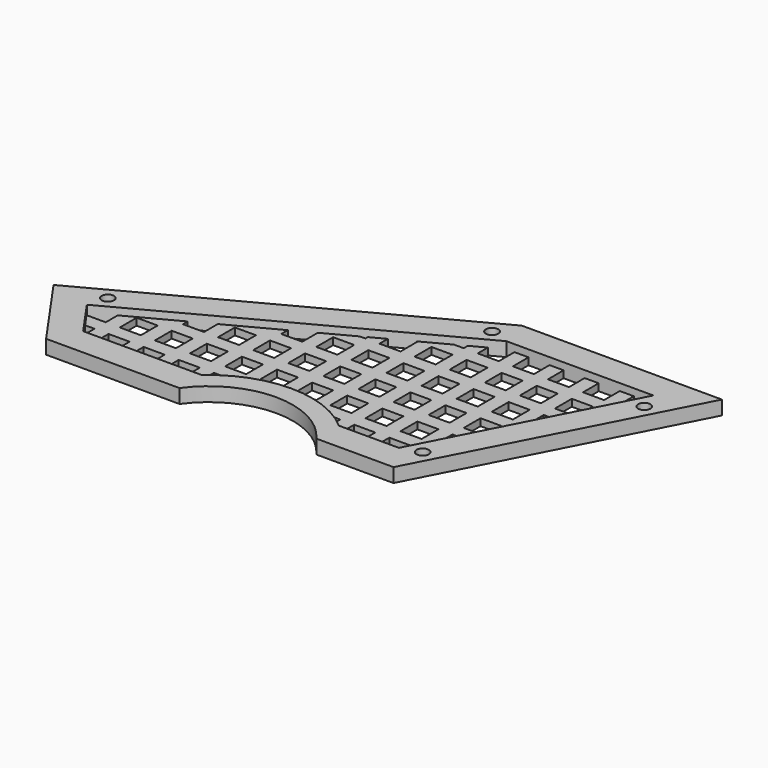
from build123d import *

# Parameters (mm, degrees)
SKETCH002_R      = 1.75
PAD002_DEPTH     = 25
SKETCH_R         = 1.75
PAD_DEPTH        = 4
BOX001_W         = 157
BOX001_H         = 4
BOX001_DEPTH     = 2
ARRAY001_Y_COUNT = 7
ARRAY001_Y_PITCH = 10
BOX_W            = 4
BOX_H            = 71
BOX_DEPTH        = 2
ARRAY_X_COUNT    = 14
ARRAY_X_PITCH    = 10
PAD001_DEPTH     = 10


with BuildPart() as pad002:
    # Sketch002 → Pad002 (new body)
    with BuildSketch(Plane.XY.offset(-5)):
        with Locations((-100.519385, 23.889178)):
            Circle(SKETCH002_R)
        with Locations((-23.703251, 64.733041)):
            Circle(SKETCH002_R)
        with Locations((25.294184, 57.68959)):
            Circle(SKETCH002_R)
        with Locations((0.517434, 9.718367)):
            Circle(SKETCH002_R)
    extrude(amount=PAD002_DEPTH)


with BuildPart() as pad:
    # Sketch → Pad (new body)
    with BuildSketch(Plane.XY):
        with BuildLine():
            Line((-113.912987, 21.297953), (-20.288199, 71.079136))
            Line((-20.288199, 71.079136), (36.711801, 71.079136))
            Line((36.711801, 71.079136), (0, 0))
            Line((0, 0), (-22, 0))
            ThreePointArc((-22, 0), (-41.5, 10.008931), (-61, 0))
            Line((-99, 0), (-61, 0))
            Line((-113.912987, 21.297953), (-99, 0))
        make_face()
        with Locations((-100.519385, 23.889178)):
            Circle(SKETCH_R, mode=Mode.SUBTRACT)
        with Locations((-23.703251, 64.733041)):
            Circle(SKETCH_R, mode=Mode.SUBTRACT)
        with Locations((25.294184, 57.68959)):
            Circle(SKETCH_R, mode=Mode.SUBTRACT)
        with Locations((0.517434, 9.718367)):
            Circle(SKETCH_R, mode=Mode.SUBTRACT)
        with BuildLine():
            Line((-61, 8), (-94.835464, 8))
            Line((-94.835464, 8), (-102.173289, 18.479501))
            Line((-102.173289, 18.479501), (-18.293574, 63.079136))
            Line((-18.293574, 63.079136), (23.575817, 63.079136))
            Line((23.575817, 63.079136), (-4.872113, 8))
            Line((-4.872113, 8), (-22, 8))
            ThreePointArc((-22, 8), (-41.5, 15.400377), (-61, 8))
        make_face(mode=Mode.SUBTRACT)
    extrude(amount=PAD_DEPTH)


with BuildPart() as array001:
    # Box001 → Box001 (new body)
    with BuildSketch(Plane(origin=(-115, 0, 0), x_dir=(1, 0, 0), z_dir=(0, 0, 1))):
        with Locations((78.5, 2)):
            Rectangle(BOX001_W, BOX001_H)
    extrude(amount=BOX001_DEPTH)

    # Array001 Y: Array001 ×7


with BuildPart() as array001_1:
    add(array001.part)
    with Locations(*[(0, i * ARRAY001_Y_PITCH, 0) for i in range(1, ARRAY001_Y_COUNT)]):
        add(array001.part)


with BuildPart() as array001_2:
    # Array001 placement: moved
    add(array001_1.part.moved(Location((0, 3.5, 0))))


with BuildPart() as fusion:
    # Box → Box (new body)
    with BuildSketch(Plane.XY):
        with Locations((2, 35.5)):
            Rectangle(BOX_W, BOX_H)
    extrude(amount=BOX_DEPTH)

    # Array X: Fusion ×14


with BuildPart() as fusion_1:
    add(fusion.part)
    with Locations(*[(i * ARRAY_X_PITCH, 0, 0) for i in range(1, ARRAY_X_COUNT)]):
        add(fusion.part)


with BuildPart() as fusion_2:
    # Array placement: moved
    add(fusion_1.part.moved(Location((-96, 0, 0))))

    # Fusion: union Array001
    add(array001_2.part)


with BuildPart() as cut:
    # Sketch001 → Pad001 (new body)
    with BuildSketch(Plane.XY.offset(-1)):
        with BuildLine():
            Line((-113.912987, 21.297953), (-20.288199, 71.079136))
            Line((-20.288199, 71.079136), (36.711801, 71.079136))
            Line((36.711801, 71.079136), (0, 0))
            Line((0, 0), (-22, 0))
            ThreePointArc((-22, 0), (-41.5, 10.008931), (-61, 0))
            Line((-99, 0), (-61, 0))
            Line((-113.912987, 21.297953), (-99, 0))
        make_face()
    extrude(amount=PAD001_DEPTH)

    # Common: intersect Fusion
    add(fusion_2.part, mode=Mode.INTERSECT)

    # Fusion001: union Pad
    add(pad.part)

    # Cut: cut Pad002
    add(pad002.part, mode=Mode.SUBTRACT)


solid = cut.part
